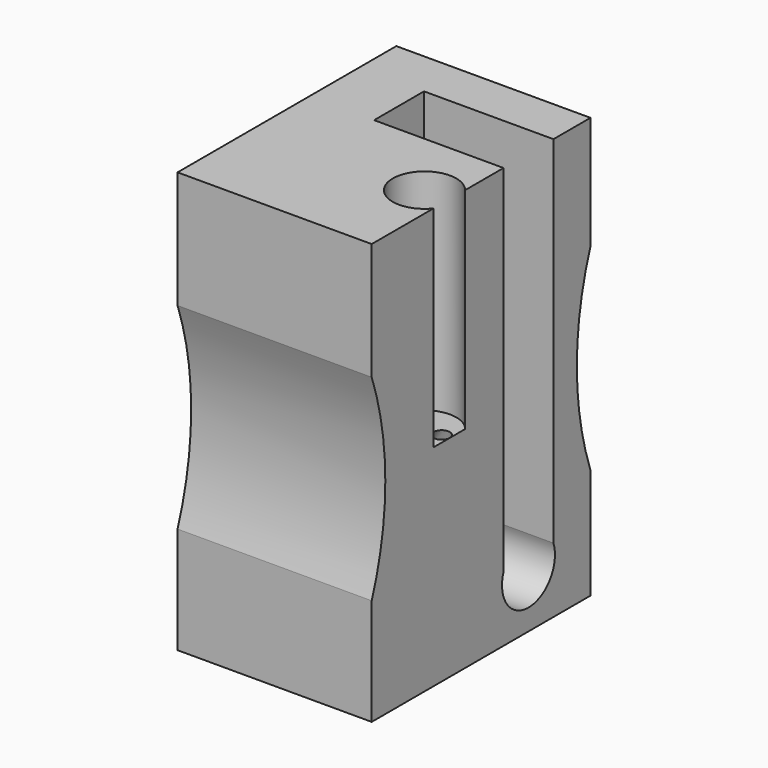
from build123d import *

# Parameters (mm, degrees)
F0_W      = 16.9
F0_H      = 26
F1_DEPTH  = 6
F4_DEPTH  = 13
F5_R      = 0.5
F7_R      = 3.446906
F11_DEPTH = 12.001
F13_DEPTH = 8
F15_R     = 1.24365
F16_DEPTH = 5


with BuildPart() as f1:
    # F0 (on Right) → F1 (new body, symmetric)
    with BuildSketch(Plane.YZ):
        Rectangle(F0_W, F0_H)
    extrude(amount=F1_DEPTH, both=True)

    # F3 (on offset) → F4 (cut)
    with BuildSketch(Plane.XY.offset(13)):
        with BuildLine():
            Line((6, -3.679424), (6, -1.229189))
            ThreePointArc((6, -1.229189), (2.508033, -2.454307), (6, -3.679424))
        make_face()
    extrude(amount=-F4_DEPTH, mode=Mode.SUBTRACT)

    # F5 (on Top) → F8 section 0
    with BuildSketch(Plane.XY):
        with Locations((5.5, -2.421203)):
            Circle(F5_R)
    # F7 (on offset) → F8 section 1
    with BuildSketch(Plane.XY.offset(-13)):
        with Locations((0, -2.394957)):
            Circle(F7_R)
    loft(mode=Mode.SUBTRACT)

    # F10 (on offset) → F11 (cut, through all)
    with BuildSketch(Plane.YZ.offset(6)):
        with BuildLine():
            Line((8.45, -6.165668), (8.45, 5.995139))
            ThreePointArc((8.45, 5.995139), (7.398846, -0.085264), (8.45, -6.165668))
        make_face()
        with BuildLine():
            Line((-8.45, 5.754331), (-8.45, -6.406476))
            ThreePointArc((-8.45, -6.406476), (-7.398846, -0.326072), (-8.45, 5.754331))
        make_face()
    extrude(amount=-F11_DEPTH, mode=Mode.SUBTRACT)

    # F12 (on offset) → F13 (cut)
    with BuildSketch(Plane.YZ.offset(6)):
        with BuildLine():
            Line((1.735005, 13), (1.735005, -8.976745))
            ThreePointArc((1.735005, -8.976745), (3.66279, -11.704157), (5.590574, -8.976745))
            Line((5.590574, -8.976745), (5.590574, 13))
            Line((5.590574, 13), (1.735005, 13))
        make_face()
    extrude(amount=-F13_DEPTH, mode=Mode.SUBTRACT)

    # F15 (on offset) → F16 (cut)
    with BuildSketch(Plane.YZ.offset(2)):
        with Locations((3.523343, 0)):
            Circle(F15_R)
    extrude(amount=-F16_DEPTH, mode=Mode.SUBTRACT)


solid = f1.part
